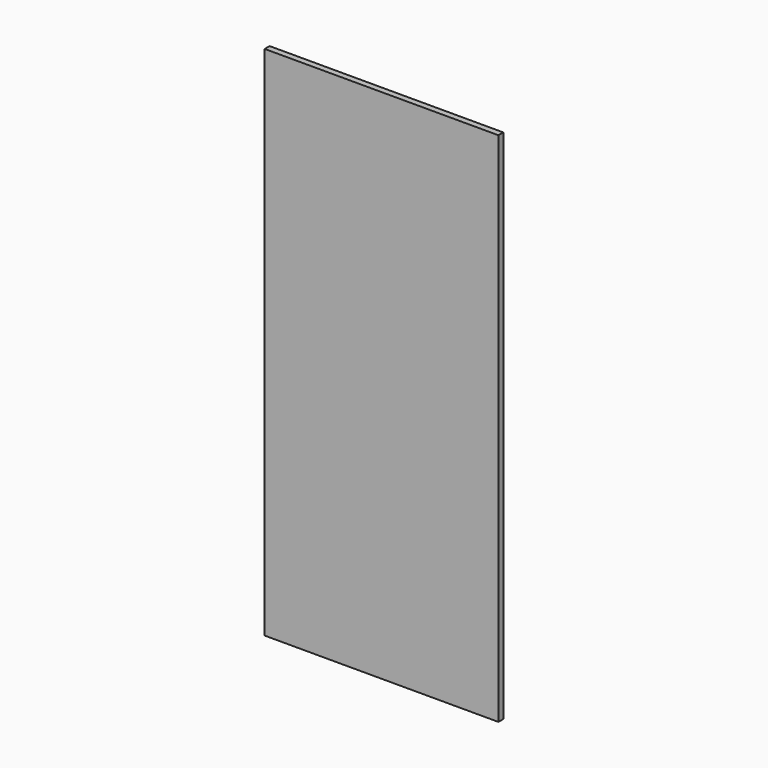
from build123d import *

# Parameters (mm, degrees)
F1_DEPTH = 25.4


with BuildPart() as f1:
    # F0 (on Front) → F1 (new body)
    with BuildSketch(Plane.XZ):
        Polygon((0, 635.508), (482.6, 152.908), (482.6, 296.672), (0, 779.272), align=None)
        Polygon((-482.6, 296.672), (0, 779.272), (0, 923.036), (-482.6, 440.436), align=None)
        Polygon((0, 1066.8), (482.6, 584.2), (482.6, 727.964), (143.764, 1066.8), align=None)
        Polygon((-482.6, 584.2), (0, 1066.8), (-143.764, 1066.8), (-482.6, 727.964), align=None)
        Polygon((-482.6, 440.436), (0, 923.036), (0, 1066.8), (-482.6, 584.2), align=None)
        Polygon((-482.6, 727.964), (-143.764, 1066.8), (-287.528, 1066.8), (-482.6, 871.728), align=None)
        Polygon((-482.6, 152.908), (0, 635.508), (0, 779.272), (-482.6, 296.672), align=None)
        Polygon((0, 779.272), (482.6, 296.672), (482.6, 440.436), (0, 923.036), align=None)
        Polygon((143.764, 1066.8), (482.6, 727.964), (482.6, 871.728), (287.528, 1066.8), align=None)
        Polygon((431.292, 1066.8), (482.6, 1015.492), (482.6, 1066.8), align=None)
        Polygon((-482.6, 1015.492), (-431.292, 1066.8), (-482.6, 1066.8), align=None)
        Polygon((-482.6, 871.728), (-287.528, 1066.8), (-431.292, 1066.8), (-482.6, 1015.492), align=None)
        Polygon((287.528, 1066.8), (482.6, 871.728), (482.6, 1015.492), (431.292, 1066.8), align=None)
        Polygon((0, 923.036), (482.6, 440.436), (482.6, 584.2), (0, 1066.8), align=None)
        Polygon((0, 491.744), (482.6, 9.144), (482.6, 152.908), (0, 635.508), align=None)
        Polygon((-482.6, 9.144), (0, 491.744), (0, 635.508), (-482.6, 152.908), align=None)
        Polygon((-482.6, -134.62), (0, 347.98), (0, 491.744), (-482.6, 9.144), align=None)
        Polygon((-482.6, -278.384), (0, 204.216), (0, 347.98), (-482.6, -134.62), align=None)
        Polygon((-482.6, -422.148), (0, 60.452), (0, 204.216), (-482.6, -278.384), align=None)
        Polygon((-482.6, -565.912), (0, -83.312), (0, 60.452), (-482.6, -422.148), align=None)
        Polygon((-482.6, -709.676), (0, -227.076), (0, -83.312), (-482.6, -565.912), align=None)
        Polygon((-482.6, -853.44), (0, -370.84), (0, -227.076), (-482.6, -709.676), align=None)
        Polygon((-482.6, -997.204), (0, -514.604), (0, -370.84), (-482.6, -853.44), align=None)
        Polygon((-408.432, -1066.8), (0, -658.368), (0, -514.604), (-482.6, -997.204), (-482.6, -1066.8), align=None)
        Polygon((0, -945.896), (0, -802.132), (-264.668, -1066.8), (-120.904, -1066.8), align=None)
        Polygon((-120.904, -1066.8), (0, -1066.8), (0, -945.896), align=None)
        Polygon((0, 347.98), (482.6, -134.62), (482.6, 9.144), (0, 491.744), align=None)
        Polygon((0, 204.216), (482.6, -278.384), (482.6, -134.62), (0, 347.98), align=None)
        Polygon((0, 60.452), (482.6, -422.148), (482.6, -278.384), (0, 204.216), align=None)
        Polygon((0, -83.312), (482.6, -565.912), (482.6, -422.148), (0, 60.452), align=None)
        Polygon((0, -227.076), (482.6, -709.676), (482.6, -565.912), (0, -83.312), align=None)
        Polygon((0, -370.84), (482.6, -853.44), (482.6, -709.676), (0, -227.076), align=None)
        Polygon((0, -514.604), (482.6, -997.204), (482.6, -853.44), (0, -370.84), align=None)
        Polygon((408.432, -1066.8), (482.6, -1066.8), (482.6, -997.204), (0, -514.604), (0, -658.368), align=None)
        Polygon((264.668, -1066.8), (408.432, -1066.8), (0, -658.368), (0, -802.132), align=None)
        Polygon((120.904, -1066.8), (264.668, -1066.8), (0, -802.132), (0, -945.896), align=None)
        Polygon((0, -1066.8), (120.904, -1066.8), (0, -945.896), align=None)
        Polygon((0, -802.132), (0, -658.368), (-408.432, -1066.8), (-264.668, -1066.8), align=None)
    extrude(amount=F1_DEPTH)


solid = f1.part
